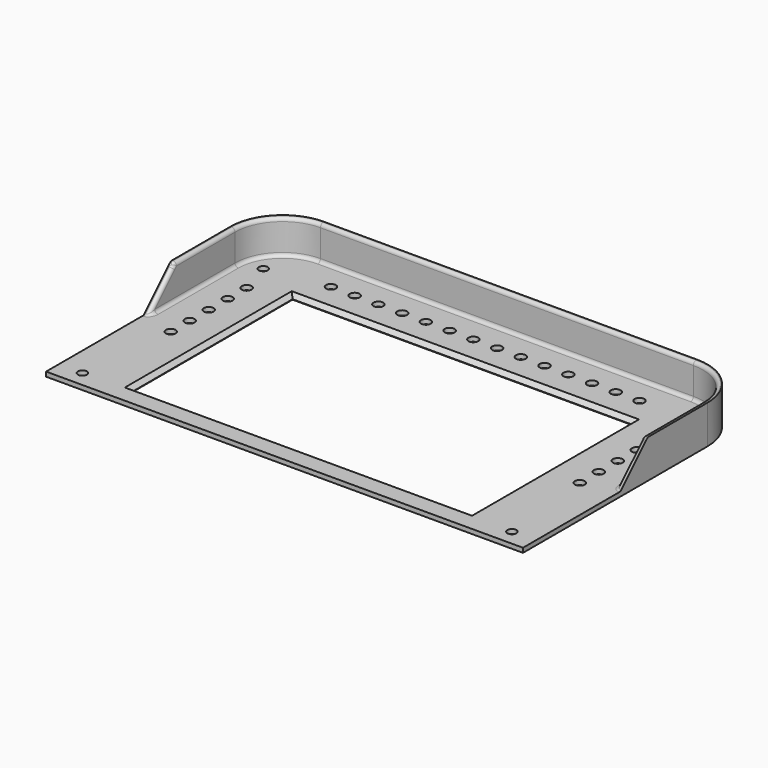
from build123d import *

# Parameters (mm, degrees)
PAD001_DEPTH      = 15
FILLET_R          = 1.5
SKETCH002_R       = 2.16
SKETCH002_R_2     = 2
SKETCH002_W       = 150
SKETCH002_H       = 88.7
PAD_DEPTH         = 2
CHAMFER_SIZE      = 1.8
PAD002_DEPTH      = 150
PAD002_DEPTH_BACK = 150
FILLET001_R       = 1.5
FILLET002_R       = 1.5
FILLET003_R       = 1.5


with BuildPart() as hat:
    # Sketch003 → Pad001 (new body)
    with BuildSketch(Plane.XY):
        with BuildLine():
            Line((-105.5, -52), (105.5, -52))
            Line((105.5, -52), (105.5, 50))
            ThreePointArc((105.5, 50), (98.763456, 66.263456), (82.5, 73))
            Line((-82.5, 73), (82.5, 73))
            ThreePointArc((-82.5, 73), (-98.763456, 66.263456), (-105.5, 50))
            Line((-105.5, -52), (-105.5, 50))
        make_face()
        with BuildLine():
            Line((-103.5, -50), (103.5, -50))
            Line((103.5, -50), (103.5, 50))
            ThreePointArc((103.5, 50), (97.349242, 64.849242), (82.5, 71))
            Line((-82.5, 71), (82.5, 71))
            ThreePointArc((-82.5, 71), (-97.349242, 64.849242), (-103.5, 50))
            Line((-103.5, -50), (-103.5, 50))
        make_face(mode=Mode.SUBTRACT)
    extrude(amount=PAD001_DEPTH)

    # Fillet
    fillet_edges = [hat.edges().sort_by_distance(p)[0] for p in [
        (0, 71, 15),
    ]]
    fillet(fillet_edges, radius=FILLET_R)


with BuildPart() as hat_1:
    # Body001 placement: moved
    add(hat.part.moved(Location((0, 0, 2))))


with BuildPart() as front:
    # Sketch002 → Pad (new body)
    with BuildSketch(Plane.XY):
        with BuildLine():
            Line((-105.5, -52), (105.5, -52))
            Line((105.5, -52), (105.5, 50))
            ThreePointArc((105.5, 50), (98.763456, 66.263456), (82.5, 73))
            Line((-82.5, 73), (82.5, 73))
            ThreePointArc((-82.5, 73), (-98.763456, 66.263456), (-105.5, 50))
            Line((-105.5, -52), (-105.5, 50))
        make_face()
        with Locations((-90.5, 40.2)):
            Circle(SKETCH002_R, mode=Mode.SUBTRACT)
        with Locations((90.5, 40.2)):
            Circle(SKETCH002_R, mode=Mode.SUBTRACT)
        with Locations((-68.25, 59)):
            Circle(SKETCH002_R, mode=Mode.SUBTRACT)
        with Locations((-57.75, 59)):
            Circle(SKETCH002_R, mode=Mode.SUBTRACT)
        with Locations((-47.25, 59)):
            Circle(SKETCH002_R, mode=Mode.SUBTRACT)
        with Locations((-36.75, 59)):
            Circle(SKETCH002_R, mode=Mode.SUBTRACT)
        with Locations((-26.25, 59)):
            Circle(SKETCH002_R, mode=Mode.SUBTRACT)
        with Locations((-15.75, 59)):
            Circle(SKETCH002_R, mode=Mode.SUBTRACT)
        with Locations((-5.25, 59)):
            Circle(SKETCH002_R, mode=Mode.SUBTRACT)
        with Locations((5.25, 59)):
            Circle(SKETCH002_R, mode=Mode.SUBTRACT)
        with Locations((15.75, 59)):
            Circle(SKETCH002_R, mode=Mode.SUBTRACT)
        with Locations((26.25, 59)):
            Circle(SKETCH002_R, mode=Mode.SUBTRACT)
        with Locations((36.75, 59)):
            Circle(SKETCH002_R, mode=Mode.SUBTRACT)
        with Locations((47.25, 59)):
            Circle(SKETCH002_R, mode=Mode.SUBTRACT)
        with Locations((57.75, 59)):
            Circle(SKETCH002_R, mode=Mode.SUBTRACT)
        with Locations((68.25, 59)):
            Circle(SKETCH002_R, mode=Mode.SUBTRACT)
        with Locations((-90.5, 29.7)):
            Circle(SKETCH002_R, mode=Mode.SUBTRACT)
        with Locations((-90.5, 19.2)):
            Circle(SKETCH002_R, mode=Mode.SUBTRACT)
        with Locations((-90.5, 8.7)):
            Circle(SKETCH002_R, mode=Mode.SUBTRACT)
        with Locations((-90.5, -1.8)):
            Circle(SKETCH002_R, mode=Mode.SUBTRACT)
        with Locations((90.5, 29.7)):
            Circle(SKETCH002_R, mode=Mode.SUBTRACT)
        with Locations((90.5, 19.2)):
            Circle(SKETCH002_R, mode=Mode.SUBTRACT)
        with Locations((90.5, 8.7)):
            Circle(SKETCH002_R, mode=Mode.SUBTRACT)
        with Locations((90.5, -1.8)):
            Circle(SKETCH002_R, mode=Mode.SUBTRACT)
        with Locations((-95, -45)):
            Circle(SKETCH002_R_2, mode=Mode.SUBTRACT)
        with Locations((95, -45)):
            Circle(SKETCH002_R_2, mode=Mode.SUBTRACT)
        with Locations((95, 55)):
            Circle(SKETCH002_R_2, mode=Mode.SUBTRACT)
        with Locations((-95, 55)):
            Circle(SKETCH002_R_2, mode=Mode.SUBTRACT)
        with Locations((0, 1.85)):
            Rectangle(SKETCH002_W, SKETCH002_H, mode=Mode.SUBTRACT)
    extrude(amount=PAD_DEPTH)

    # Chamfer
    chamfer_edges = [front.edges().sort_by_distance(p)[0] for p in [
        (0, 46.2, 2),
        (-75, 1.85, 2),
        (75, 1.85, 2),
        (0, -42.5, 2),
    ]]
    chamfer(chamfer_edges, length=CHAMFER_SIZE)


with BuildPart() as top:
    # Sketch004 → Pad002 (new body, two sides)
    with BuildSketch(Plane.YZ) as pad002_sk:
        Polygon((0, 0), (28.284271, 28.284271), (88.284271, 28.284271), (88.284271, 0), align=None)
    extrude(amount=PAD002_DEPTH)
    extrude(pad002_sk.sketch, amount=-PAD002_DEPTH_BACK)

    # Boolean: intersect HAT
    add(hat_1.part, mode=Mode.INTERSECT)

    # Fillet001
    fillet001_edges = [top.edges().sort_by_distance(p)[0] for p in [
        (-103.5, 8.75, 8.75),
    ]]
    fillet(fillet001_edges, radius=FILLET001_R)

    # Fillet002
    fillet002_edges = [top.edges().sort_by_distance(p)[0] for p in [
        (103.5, 8.75, 8.75),
    ]]
    fillet(fillet002_edges, radius=FILLET002_R)

    # Boolean001: union FRONT
    add(front.part)

    # Fillet003
    fillet003_edges = [top.edges().sort_by_distance(p)[0] for p in [
        (-103.5, 27.06066, 2),
    ]]
    fillet(fillet003_edges, radius=FILLET003_R)


solid = top.part
